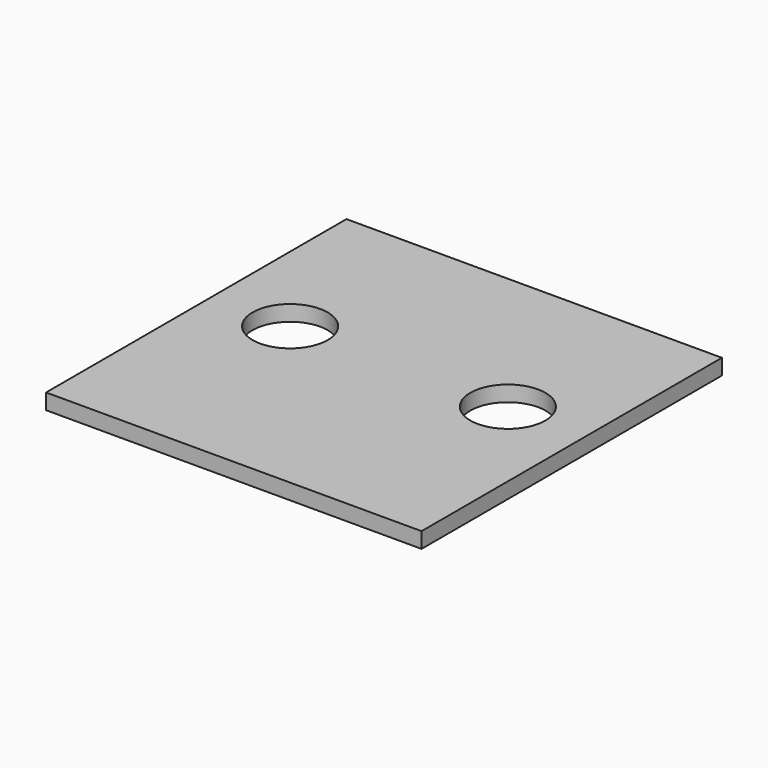
from build123d import *

# Parameters (mm, degrees)
F0_W     = 32.004
F0_H     = 83.82
F1_DEPTH = 6.35
F3_D     = 30.48


with BuildPart() as f1:
    # F0 (on Top) → F1 (new body)
    with BuildSketch(Plane.XY):
        Polygon((-44.196, -76.2), (44.196, -76.2), (44.196, 7.62), (76.2, 7.62), (76.2, 76.2), (-76.2, 76.2), (-76.2, 7.62), (-44.196, 7.62), align=None)
        with Locations((-60.198, -34.29)):
            Rectangle(F0_W, F0_H)
        with Locations((60.198, -34.29)):
            Rectangle(F0_W, F0_H)
    extrude(amount=F1_DEPTH)

    # F3 (through all)
    with Locations(Plane.XY.offset(6.35)):
        with Locations((-44.196, 7.62), (44.196, 7.62)):
            Hole(F3_D / 2)


solid = f1.part
